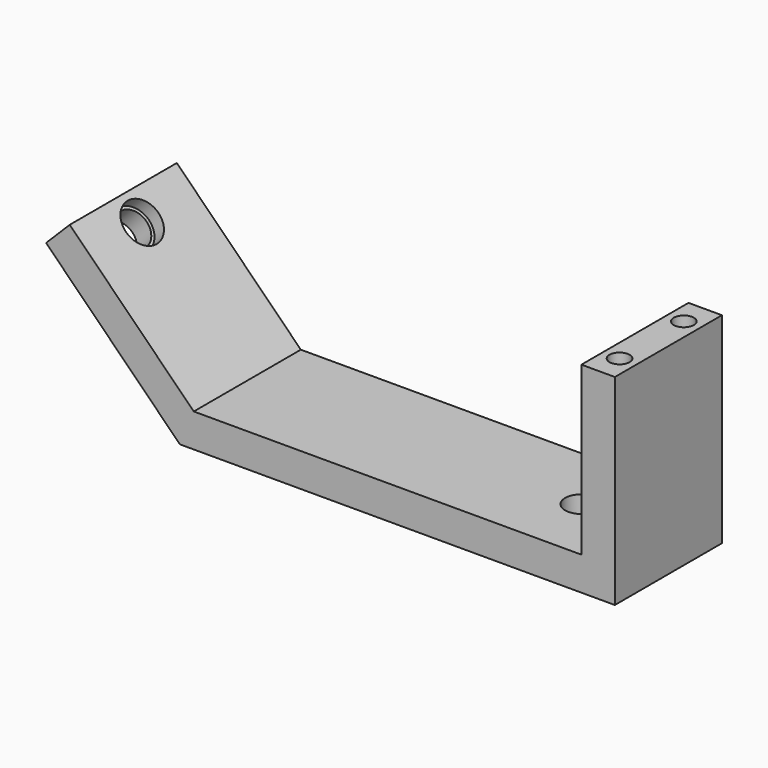
from build123d import *

# Parameters (mm, degrees)
F1_DEPTH  = 20
F2_R      = 2.6
F3_DEPTH  = 19.1431356237
F4_R      = 2.5
F5_DEPTH  = 5.001
F6_R      = 3.05
F7_DEPTH  = 2
F8_W      = 5
F8_H      = 20
F9_DEPTH  = 25
F11_D     = 3
F11_DEPTH = 10
F11_TIP   = 0.9012909285


with BuildPart() as f1:
    # F0 (on Front) → F1 (new body)
    with BuildSketch(Plane.XZ):
        Polygon((-65, 0), (0, 0), (0, 5), (-62.9289321881, 5), (-81.4644660941, 23.5355339059), (-85, 20), align=None)
    extrude(amount=F1_DEPTH)

    # F2 (on face) → F3 (cut, through all)
    with BuildSketch(Plane(origin=(-28.9644660941, 0, -28.9644660941), x_dir=(0.7071067812, 0, -0.7071067812), z_dir=(0.7071067812, 0, 0.7071067812))):
        with Locations((-70.2462120246, -10)):
            Circle(F2_R)
    extrude(amount=-F3_DEPTH, mode=Mode.SUBTRACT)

    # F4 (on face) → F5 (cut, through all)
    with BuildSketch(Plane.XY.offset(5)):
        with Locations((-12.9289321881, -10)):
            Circle(F4_R)
    extrude(amount=-F5_DEPTH, mode=Mode.SUBTRACT)

    # F6 (on face) → F7 (cut)
    with BuildSketch(Plane(origin=(-28.9644660941, 0, -28.9644660941), x_dir=(0.7071067812, 0, -0.7071067812), z_dir=(0.7071067812, 0, 0.7071067812))):
        with Locations((-70.2462120246, -10)):
            Circle(F6_R)
    extrude(amount=-F7_DEPTH, mode=Mode.SUBTRACT)

    # F8 (on face) → F9 (join)
    with BuildSketch(Plane.XY.offset(5)):
        with Locations((-2.5, -10)):
            Rectangle(F8_W, F8_H)
    extrude(amount=F9_DEPTH)

    # F11
    with Locations(Plane.XY.offset(30)):
        with Locations((-2.5, -16), (-2.5, -4)):
            Hole(F11_D / 2, depth=F11_DEPTH)
            with Locations((0, 0, -(F11_DEPTH + F11_TIP / 2))):  # 118° drill point
                Cone(0, F11_D / 2, F11_TIP, mode=Mode.SUBTRACT)


solid = f1.part
